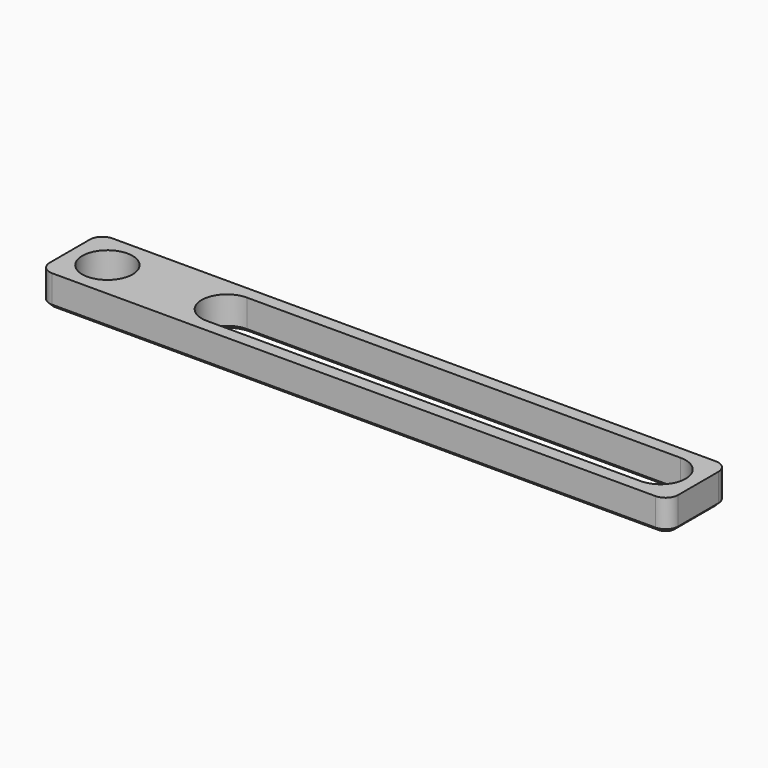
from build123d import *

# Parameters (mm, degrees)
F0_W     = 100
F0_H     = 12
F0_R     = 4
F1_DEPTH = 5
F2_R     = 2
F3_SIZE  = 0.6


with BuildPart() as f1:
    # F0 (on Top) → F1 (new body)
    with BuildSketch(Plane.XY):
        with Locations((25, 0)):
            Rectangle(F0_W, F0_H)
        with Locations((-19, 0)):
            Circle(F0_R, mode=Mode.SUBTRACT)
        with BuildLine():
            Line((69, -4), (0, -4))
            ThreePointArc((0, -4), (-4, 0), (0, 4))
            Line((0, 4), (69, 4))
            ThreePointArc((69, 4), (73, 0), (69, -4))
        make_face(mode=Mode.SUBTRACT)
    extrude(amount=F1_DEPTH)

    # F2
    f2_edges = [f1.edges().sort_by_distance(p)[0] for p in [
        (-25, -6, 2.5),
        (-25, 6, 2.5),
        (75, 6, 2.5),
        (75, -6, 2.5),
    ]]
    fillet(f2_edges, radius=F2_R)

    # F3
    f3_edges = [f1.edges().sort_by_distance(p)[0] for p in [
        (25, 6, 0),
        (74.414214, 5.414214, 0),
        (-24.414214, 5.414214, 0),
        (75, 0, 0),
        (-25, 0, 0),
        (74.414214, -5.414214, 0),
        (-24.414214, -5.414214, 0),
        (25, -6, 0),
        (-23, 0, 0),
        (34.5, 4, 0),
        (73, 0, 0),
        (34.5, -4, 0),
        (-4, 0, 0),
    ]]
    chamfer(f3_edges, length=F3_SIZE)


solid = f1.part
